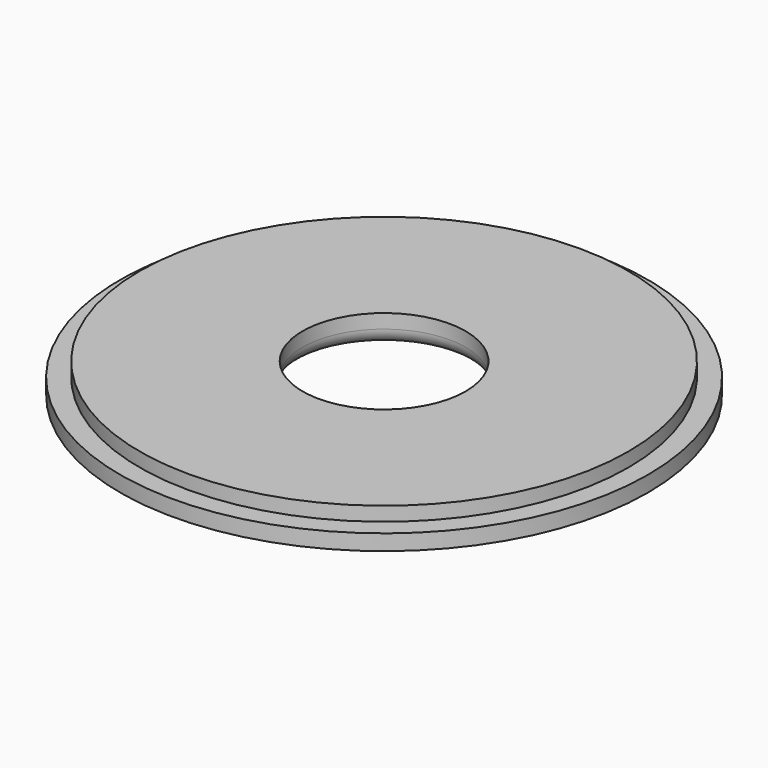
from build123d import *

# Parameters (mm, degrees)
F0_R     = 42.7482
F1_DEPTH = 2.54
F2_R     = 39.5732
F3_DEPTH = 2.286
F4_R     = 13.208
F5_DEPTH = 4.827
F6_R     = 2.54


with BuildPart() as f1:
    # F0 (on Top) → F1 (new body)
    with BuildSketch(Plane.XY):
        Circle(F0_R)
    extrude(amount=F1_DEPTH)

    # F2 (on face) → F3 (join)
    with BuildSketch(Plane.XY.offset(2.54)):
        Circle(F2_R)
    extrude(amount=F3_DEPTH)

    # F4 (on face) → F5 (cut, through all)
    with BuildSketch(Plane.XY.offset(4.826)):
        Circle(F4_R)
    extrude(amount=-F5_DEPTH, mode=Mode.SUBTRACT)

    # F6
    f6_edges = [f1.edges().sort_by_distance(p)[0] for p in [
        (-13.208, 0, 0),
    ]]
    fillet(f6_edges, radius=F6_R)


solid = f1.part
